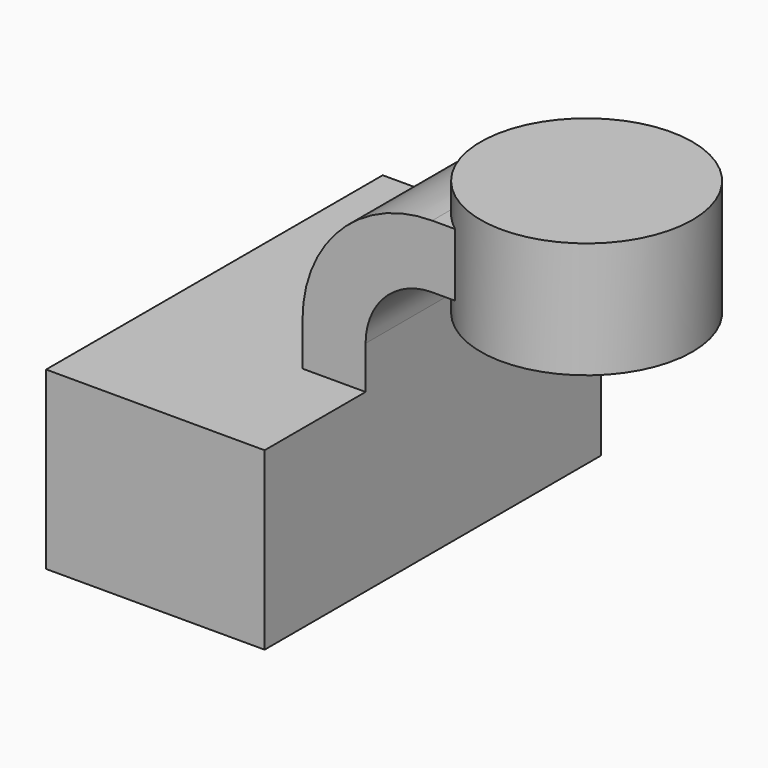
from build123d import *

# Parameters (mm, degrees)
F1_DEPTH = 63.5
F0_W     = 11.337429
F0_H     = 8.77819
F2_DEPTH = 25.4


with BuildPart() as f1:
    # F0 (on Front) → F1 (new body, symmetric)
    with BuildSketch(Plane.XZ):
        Polygon((32.981567, -26.49961), (32.981567, 26.49961), (13.931567, 26.49961), (-32.981567, 26.49961), (-32.981567, -26.49961), align=None)
    extrude(amount=F1_DEPTH, both=True)

    # F0 (on Front) → F2 (join, symmetric)
    with BuildSketch(Plane.XZ):
        with BuildLine():
            Line((13.931567, 26.49961), (32.981567, 26.49961))
            Line((32.981567, 26.49961), (32.981567, 39.423279))
            ThreePointArc((32.981567, 39.423279), (38.868178, 53.634815), (53.079713, 59.521426))
            Line((53.079713, 59.521426), (68.024464, 59.521426))
            Line((68.024464, 59.521426), (68.024464, 78.571426))
            Line((68.024464, 78.571426), (53.079713, 78.571426))
            ThreePointArc((53.079713, 78.571426), (25.397794, 67.105199), (13.931567, 39.423279))
            Line((13.931567, 39.423279), (13.931567, 26.49961))
        make_face()
        with Locations((73.693178, 82.960521)):
            Rectangle(F0_W, F0_H)
    extrude(amount=F2_DEPTH, both=True)

    # F0 (on Front) → F3 (revolve)
    with BuildSketch(Plane.XZ):
        Polygon((79.361893, 78.571426), (79.361893, 59.521426), (79.361893, 52.306704), (111.312799, 52.306704), (111.312799, 87.349616), (79.361893, 87.349616), align=None)
    revolve(axis=Axis((79.361893, 0, 73.435521), (0, 0, 1)))


solid = f1.part
